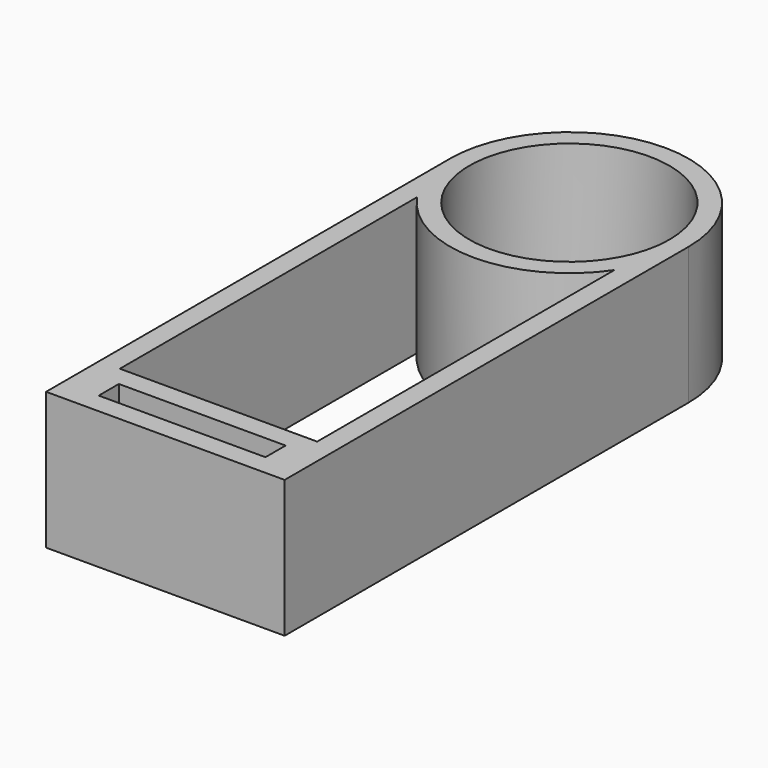
from build123d import *

# Parameters (mm, degrees)
F0_R     = 28.9
F0_R_2   = 24.25
F1_DEPTH = 33.25
F2_R     = 28.9
F3_DEPTH = 4
F4_W     = 40.4
F4_H     = 6.1
F5_DEPTH = 33.25


with BuildPart() as f1:
    # F0 (on Top) → F1 (new body)
    with BuildSketch(Plane.XY):
        Circle(F0_R)
        Circle(F0_R_2, mode=Mode.SUBTRACT)
    extrude(amount=F1_DEPTH)

    # F2 (on Top) → F3 (join)
    with BuildSketch(Plane.XY):
        Circle(F2_R)
    extrude(amount=F3_DEPTH)

    # F4 (on Top) → F5 (join, through all)
    with BuildSketch(Plane.XY):
        with BuildLine():
            Line((28.9, -73.001511), (28.9, 0))
            ThreePointArc((28.9, 0), (27.621731, -8.5), (23.9, -16.248077))
            Line((23.9, -16.248077), (23.9, -66.324389))
            Line((23.9, -66.324389), (23.9, -106.25))
            Line((23.9, -106.25), (-23.9, -106.25))
            Line((-23.9, -106.25), (-23.9, -66.324378))
            Line((-23.9, -66.324378), (-23.9, -16.248077))
            ThreePointArc((-23.9, -16.248077), (-27.621731, -8.5), (-28.9, 0))
            Line((-28.9, 0), (-28.9, -73.001511))
            Line((-28.9, -73.001511), (-28.9, -88.678621))
            Line((-28.9, -88.678621), (-28.9, -122.35))
            Line((-28.9, -122.35), (28.9, -122.35))
            Line((28.9, -122.35), (28.9, -88.678621))
            Line((28.9, -88.678621), (28.9, -73.001511))
        make_face()
        with Locations((0.05, -114.3)):
            Rectangle(F4_W, F4_H, mode=Mode.SUBTRACT)
    extrude(amount=F5_DEPTH)


solid = f1.part
